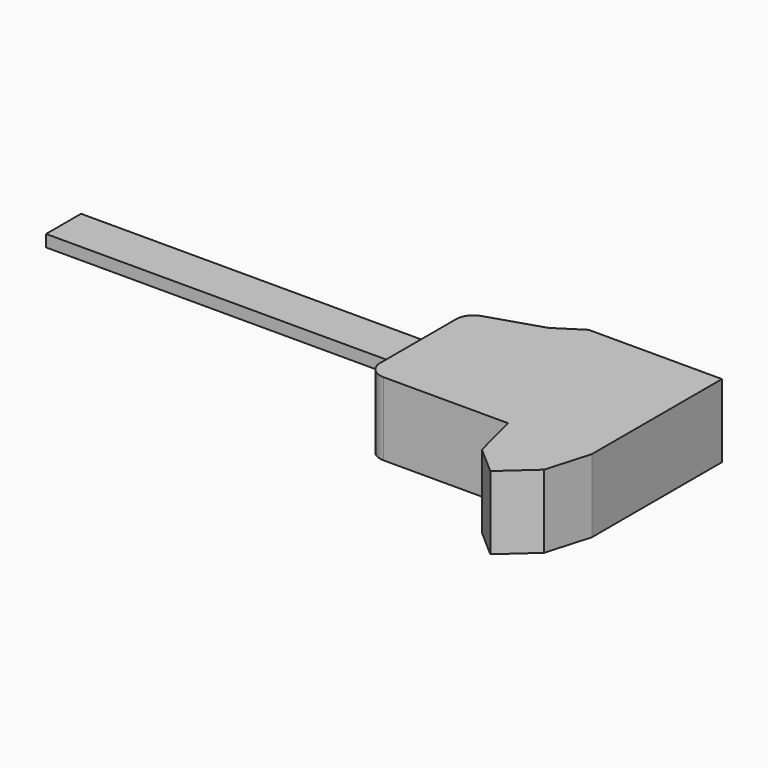
from build123d import *

# Parameters (mm, degrees)
F1_W           = 112.909309
F1_H           = 12.828815
F2_DEPTH       = 3.5
F4_DEPTH       = 2.25
F5_DEPTH       = 11.75
F6_R           = 4
F7_DEPTH       = 8
F8_W           = 29
F8_H           = 7
F8_W_2         = 18
F9_DEPTH       = 2.5
F11_DEPTH      = 5
F11_DEPTH_BACK = 16.5


with BuildPart() as f2:
    # F1 (on Top) → F2 (new body)
    with BuildSketch(Plane.XY):
        with Locations((-51.054764, -2.137298)):
            Rectangle(F1_W, F1_H)
        Polygon((42.313779, -13.007842), (42.365629, -15.185677), (47.094572, -34.873515), (51.630174, -39.505617), (51.916405, -39.797939), (57.239019, -34.586211), (62.374923, -12.387008), (62.374923, 8.963183), (59.870068, 18.472588), (56.35526, 21.313125), (53.849608, 18.950125), (51.864199, 11.120169), (51.864199, -4.743773), (49.167123, -4.743773), (49.167123, -12.950492), align=None)
    extrude(amount=-F2_DEPTH)

    # F3 (on Top) + F2_face (on face) → F4 (join)
    with BuildSketch(Plane.XY):
        with BuildLine():
            Line((2.782656, 9.273215), (2.782656, -11.098319))
            Line((2.782656, -11.098319), (2.429253, -11.988475))
            ThreePointArc((2.429253, -11.988475), (3.286365, -18.509252), (9.862848, -18.438196))
            Line((9.862848, -18.438196), (15.773462, -15.109889))
            Line((15.773462, -15.109889), (51.924363, -15.109889))
            Line((51.924363, -15.109889), (51.924363, -4.760419))
            Line((51.924363, -4.760419), (51.924363, 10.650446))
            Line((51.924363, 10.650446), (22.006499, 10.650446))
            Line((22.006499, 10.650446), (19.252038, 11.970293))
            Line((19.252038, 11.970293), (5.70927, 11.970293))
            ThreePointArc((5.70927, 11.970293), (3.71934, 11.193196), (2.782656, 9.273215))
        make_face()
    with BuildSketch(Plane(origin=(54.305877, -11.206478, 0), x_dir=(1, 0, 0), z_dir=(0, 0, 1))):
        Polygon((8.069046, 20.16966), (5.564191, 29.679065), (2.049383, 32.519603), (-0.456269, 30.156603), (-2.441678, 22.326646), (-2.441678, 6.462704), (-5.138754, 6.462704), (-5.138754, -1.744015), (-11.992098, -1.801365), (-11.940248, -3.979199), (-7.211305, -23.667038), (-2.389472, -28.591461), (2.933142, -23.379733), (8.069046, -1.18053), align=None)
    extrude(amount=F4_DEPTH)

    # F3 (on Top) → F5 (join)
    with BuildSketch(Plane.XY):
        with BuildLine():
            Line((2.782656, 9.273215), (2.782656, -11.098319))
            Line((2.782656, -11.098319), (2.429253, -11.988475))
            ThreePointArc((2.429253, -11.988475), (3.286365, -18.509252), (9.862848, -18.438196))
            Line((9.862848, -18.438196), (15.773462, -15.109889))
            Line((15.773462, -15.109889), (51.924363, -15.109889))
            Line((51.924363, -15.109889), (51.924363, -4.760419))
            Line((51.924363, -4.760419), (51.924363, 10.650446))
            Line((51.924363, 10.650446), (22.006499, 10.650446))
            Line((22.006499, 10.650446), (19.252038, 11.970293))
            Line((19.252038, 11.970293), (5.70927, 11.970293))
            ThreePointArc((5.70927, 11.970293), (3.71934, 11.193196), (2.782656, 9.273215))
        make_face()
    extrude(amount=-F5_DEPTH)

    # F6 (on face) → F7 (join)
    with BuildSketch(Plane(origin=(0, 10.650446, 0), x_dir=(-1, 0, 0), z_dir=(0, 1, 0))):
        with Locations((-28.804159, -1.75)):
            Circle(F6_R)
    extrude(amount=F7_DEPTH)

    # F8 (on face) → F9 (join)
    with BuildSketch(Plane(origin=(0, 0, -11.75), x_dir=(1, 0, 0), z_dir=(0, 0, -1))):
        with Locations((37.424363, 11.609889)):
            Rectangle(F8_W, F8_H)
        with Locations((42.924363, -7.150446)):
            Rectangle(F8_W_2, F8_H)
    extrude(amount=F9_DEPTH)


with BuildPart() as f11:
    # F10 (on Top) → F11 (new body, two sides)
    with BuildSketch(Plane.XY) as f11_sk:
        with BuildLine():
            Line((64.505808, -23.265576), (64.505808, 24.478413))
            Line((64.505808, 24.478413), (25.363356, 24.478413))
            Line((25.363356, 24.478413), (17.642634, 19.50583))
            Line((17.642634, 19.50583), (1.812583, 14.441451))
            ThreePointArc((1.812583, 14.441451), (-0.702298, 12.627298), (-1.663876, 9.679223))
            Line((-1.663876, 9.679223), (-1.663876, -18.265576))
            ThreePointArc((-1.663876, -18.265576), (-0.19941, -21.80111), (3.336124, -23.265576))
            Line((3.336124, -23.265576), (39.882578, -23.265576))
            Line((39.882578, -23.265576), (43.44042, -37.26742))
            Line((43.44042, -37.26742), (51.589034, -44.383109))
            Line((51.589034, -44.383109), (60.770571, -36.119729))
            Line((60.770571, -36.119729), (64.505808, -23.265576))
        make_face()
    extrude(amount=F11_DEPTH)
    extrude(f11_sk.sketch, amount=-F11_DEPTH_BACK)


solid = Compound([f2.part, f11.part])
